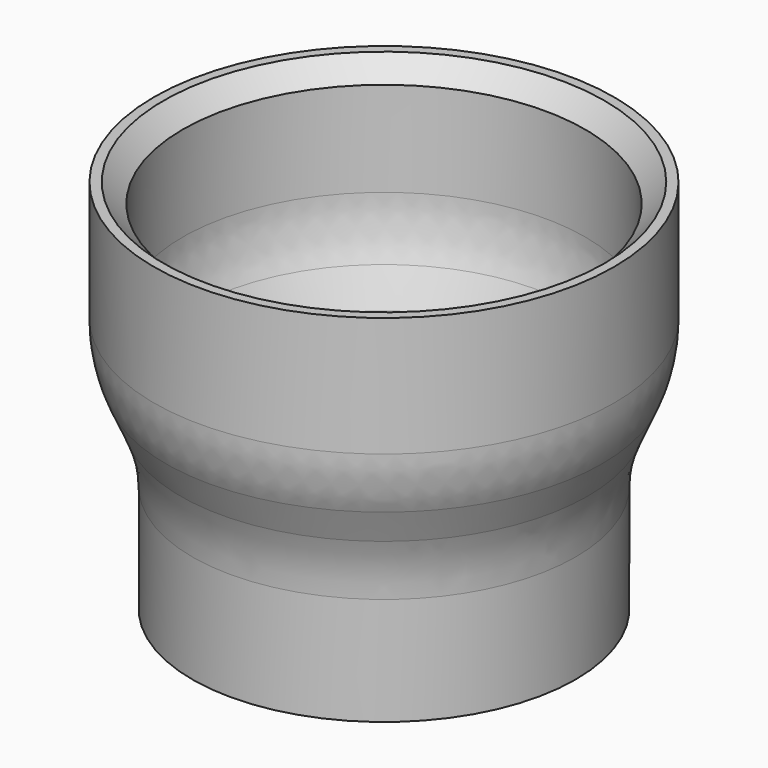
from build123d import *

# Parameters (mm, degrees)
F2_R    = 15
F3_SIZE = 2


with BuildPart() as f1:
    # F0 (on Front) → F1 (revolve)
    with BuildSketch(Plane.XZ):
        Polygon((24, 24.195369), (21, 24.195369), (21, 9.195369), (17, 0), (17, -15), (20, -15), (20, -0.62425), (24, 8.571119), align=None)
    revolve(axis=Axis((0, 0, 5.12058), (0, 0, -1)))

    # F2
    f2_edges = [f1.edges().sort_by_distance(p)[0] for p in [
        (-20, 0, -0.62425),
        (-24, 0, 8.571119),
        (-21, 0, 9.195369),
        (-17, 0, 0),
    ]]
    fillet(f2_edges, radius=F2_R)

    # F3
    f3_edges = [f1.edges().sort_by_distance(p)[0] for p in [
        (-21, 0, 24.195369),
        (-17, 0, -15),
    ]]
    chamfer(f3_edges, length=F3_SIZE)


solid = f1.part
